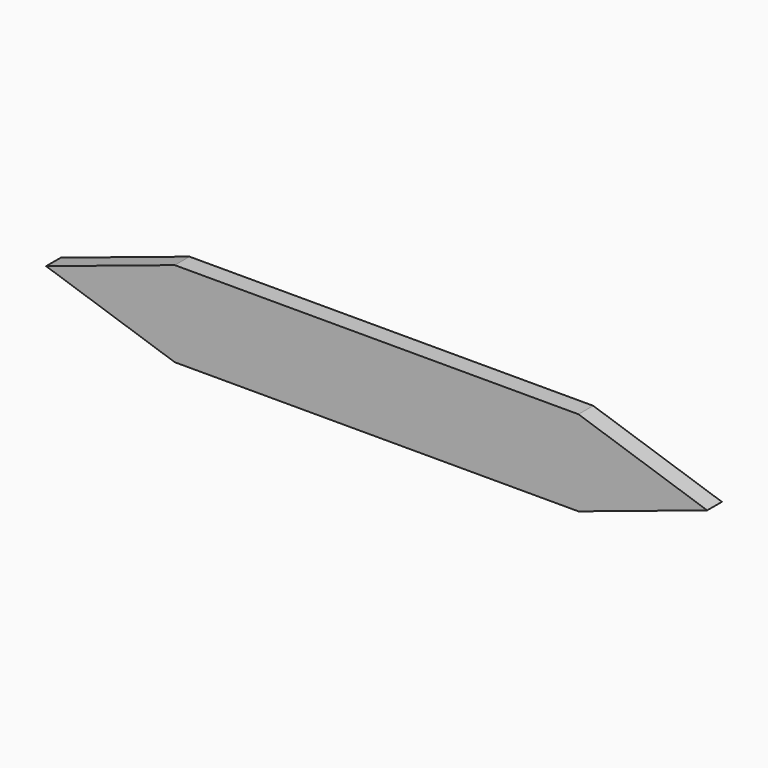
from build123d import *

# Parameters (mm, degrees)
F0_W     = 83.50922
F0_H     = 17.687716
F1_DEPTH = 3.81


with BuildPart() as f1:
    # F0 (on Front) → F1 (new body)
    with BuildSketch(Plane.XZ):
        with Locations((0, 8.843858)):
            Rectangle(F0_W, F0_H)
        Polygon((41.75461, 17.687716), (41.75461, 0), (68.384546, 8.843858), align=None)
        Polygon((-68.384535, 8.843858), (-41.75461, 0), (-41.75461, 17.687716), align=None)
    extrude(amount=F1_DEPTH)


solid = f1.part
